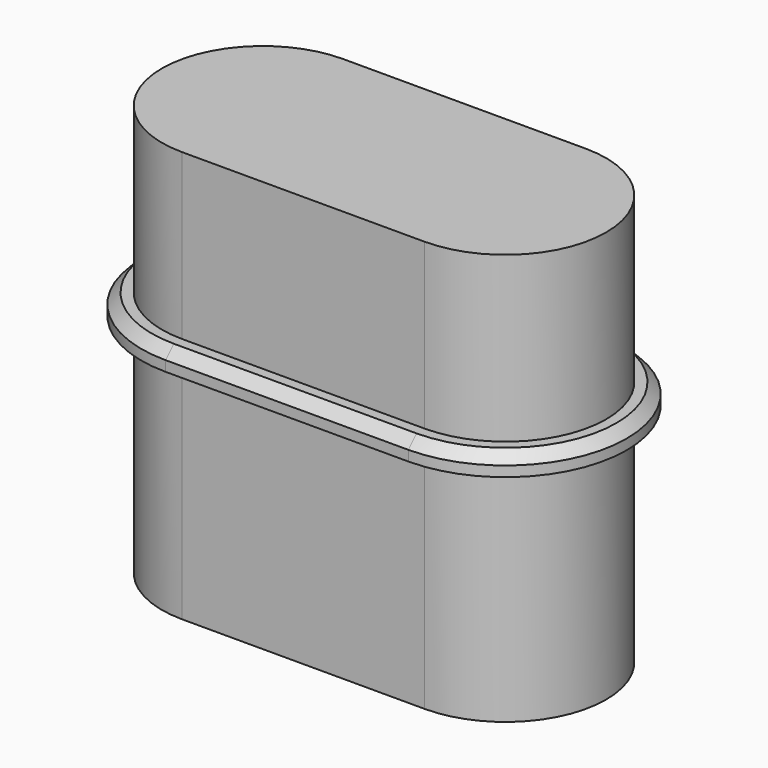
from build123d import *

# Parameters (mm, degrees)
PAD001_DEPTH = 1
CHAMFER_SIZE = 0.5
PAD_DEPTH    = 20
POCKET_DEPTH = 19


with BuildPart() as chamfer_body:
    # Sketch003 → Pad001 (new body)
    with BuildSketch(Plane.XY.offset(11)):
        with BuildLine():
            ThreePointArc((0, 5.9), (-5.9, 0), (0, -5.9))
            Line((0, -5.9), (11.8, -5.9))
            ThreePointArc((11.8, -5.9), (17.7, 0), (11.8, 5.9))
            Line((0, 5.9), (11.8, 5.9))
        make_face()
        with BuildLine():
            ThreePointArc((0, 4.9), (-4.9, 0), (0, -4.9))
            Line((0, -4.9), (11.8, -4.9))
            ThreePointArc((11.8, -4.9), (16.7, 0), (11.8, 4.9))
            Line((0, 4.9), (11.8, 4.9))
        make_face(mode=Mode.SUBTRACT)
    extrude(amount=PAD001_DEPTH)

    # Chamfer
    chamfer_edges = [chamfer_body.edges().sort_by_distance(p)[0] for p in [
        (5.9, -5.9, 12),
        (-5.9, 0, 12),
        (17.7, 0, 12),
        (5.9, 5.9, 12),
    ]]
    chamfer(chamfer_edges, length=CHAMFER_SIZE)


with BuildPart() as fusion:
    # Sketch → Pad (new body)
    with BuildSketch(Plane.XY):
        with BuildLine():
            ThreePointArc((0, 4.9), (-4.9, 0), (0, -4.9))
            Line((0, -4.9), (11.8, -4.9))
            ThreePointArc((11.8, -4.9), (16.7, 0), (11.8, 4.9))
            Line((0, 4.9), (11.8, 4.9))
        make_face()
    extrude(amount=PAD_DEPTH)

    # Sketch001 → Pocket (cut)
    with BuildSketch(Plane(origin=(0, 0, 0), x_dir=(1, 0, 0), z_dir=(0, 0, -1))):
        with BuildLine():
            ThreePointArc((0, 3.65), (-3.65, 0), (0, -3.65))
            Line((0, -3.65), (11.8, -3.65))
            ThreePointArc((11.8, -3.65), (15.45, 0), (11.8, 3.65))
            Line((0, 3.65), (11.8, 3.65))
        make_face()
    extrude(amount=-POCKET_DEPTH, mode=Mode.SUBTRACT)

    # Fusion: union Chamfer body
    add(chamfer_body.part)


solid = fusion.part
